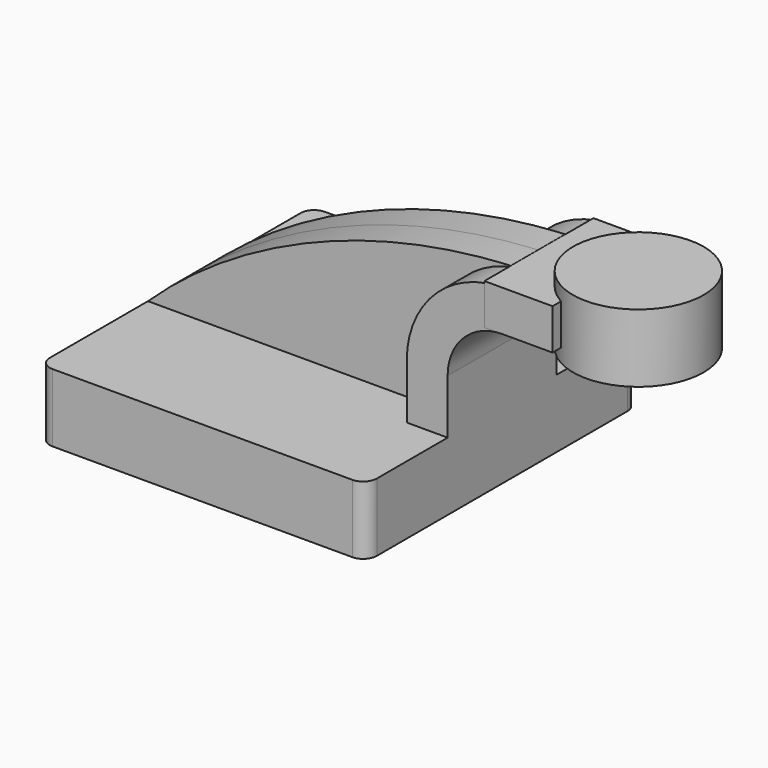
from build123d import *

# Parameters (mm, degrees)
F1_DEPTH = 62.5
F2_DEPTH = 25
F3_DEPTH = 12.5
F5_R     = 5
F6_DEPTH = 12.5


with BuildPart() as f1:
    # F0 (on Front) → F1 (new body, symmetric)
    with BuildSketch(Plane.XZ):
        Polygon((45, 12.5), (-60, 12.5), (-60, -12.5), (60, -12.5), (60, 12.5), align=None)
    extrude(amount=F1_DEPTH, both=True)

    # F0 (on Front) → F2 (join, symmetric)
    with BuildSketch(Plane.XZ):
        with BuildLine():
            Line((45, 32.5), (45, 12.5))
            Line((45, 12.5), (60, 12.5))
            Line((60, 12.5), (60, 32.5))
            ThreePointArc((60, 32.5), (65.8578643763, 46.6421356237), (80, 52.5))
            Line((80, 52.5), (86, 52.5))
            Line((86, 52.5), (86, 67.5))
            Line((86, 67.5), (80, 67.5))
            add(Edge.make_bspline(
                [(78.4011319241, 67.4634612256), (78.9336819399, 67.4775385762), (79.4666417132, 67.4897208838), (80, 67.5)],
                knots=[148.9580526978, 148.9580526978, 148.9580526978, 148.9580526978, 150.4160895649, 150.4160895649, 150.4160895649, 150.4160895649], degree=3))
            ThreePointArc((78.4011319241, 67.4634612256), (54.6922898837, 56.676844473), (45, 32.5))
        make_face()
    extrude(amount=F2_DEPTH, both=True)

    # F0 (on Front) → F3 (join, symmetric)
    with BuildSketch(Plane.XZ):
        with BuildLine():
            add(Edge.make_bspline(
                [(-60, 12.5), (-26.1363538837, 44.8078210398), (23.9939937369, 66.0252707529), (78.4011319241, 67.4634612256)],
                knots=[0, 0, 0, 0, 148.9580526978, 148.9580526978, 148.9580526978, 148.9580526978], degree=3))
            Line((-60, 12.5), (45, 12.5))
            Line((45, 12.5), (45, 32.5))
            ThreePointArc((45, 32.5), (54.6922898837, 56.676844473), (78.4011319241, 67.4634612256))
        make_face()
    extrude(amount=F3_DEPTH, both=True)

    # F5
    f5_edges = [f1.edges().sort_by_distance(p)[0] for p in [
        (-60, -62.5, 0),
        (60, -62.5, 0),
        (60, 62.5, 0),
        (-60, 62.5, 0),
    ]]
    fillet(f5_edges, radius=F5_R)


with BuildPart() as f4:
    # F0 (on Front) → F4 (revolve)
    with BuildSketch(Plane.XZ):
        Polygon((110, 72.5), (110, 67.5), (110, 52.5), (110, 47.5), (134, 47.5), (134, 72.5), align=None)
    revolve(axis=Axis((110, 0, 60), (0, 0, 1)))


with BuildPart() as f6:
    # F6 (new, symmetric): a face of the model
    f6_faces = [f1.part.faces().sort_by_distance(p)[0] for p in [
        (86, 0, 60),
    ]]
    extrude(f6_faces, amount=F6_DEPTH, both=True)


solid = Compound([f1.part, f4.part, f6.part])
